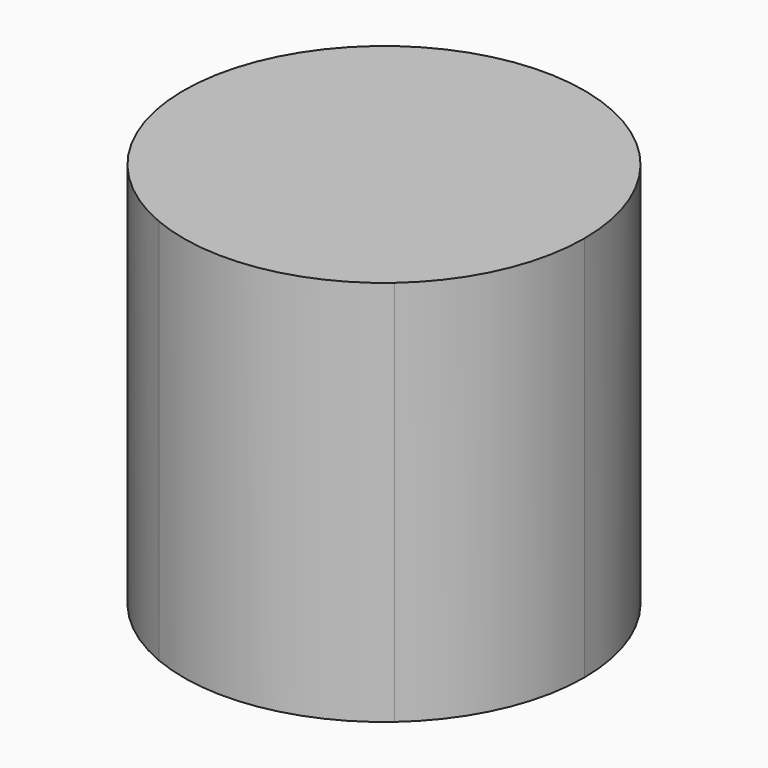
from build123d import *

# Parameters (mm, degrees)
F1_DEPTH = 50.8


with BuildPart() as f1:
    # F0 (on Top) → F1 (new body)
    with BuildSketch(Plane.XY):
        with BuildLine():
            ThreePointArc((-28.628483, 23.446609), (-21.950553, 32.396332), (-19.582599, 43.308942))
            ThreePointArc((-19.582599, 43.308942), (-34.999107, 67.270107), (-63.194952, 63.171275))
            Line((-63.194952, 63.171275), (-54.316911, 52.968404))
            Line((-54.316911, 52.968404), (-52.872185, 51.308089))
            Line((-52.872185, 51.308089), (-38.250614, 34.504607))
            Line((-38.250614, 34.504607), (-28.628483, 23.446609))
        make_face()
        with BuildLine():
            Line((-54.316911, 52.968404), (-71.672229, 37.866652))
            ThreePointArc((-71.672229, 37.866652), (-66.188404, 26.513751), (-56.054994, 19.012103))
            Line((-56.054994, 19.012103), (-38.250614, 34.504607))
            Line((-38.250614, 34.504607), (-52.872185, 51.308089))
            Line((-52.872185, 51.308089), (-54.316911, 52.968404))
        make_face()
        with BuildLine():
            Line((-54.316911, 52.968404), (-63.194952, 63.171275))
            ThreePointArc((-63.194952, 63.171275), (-70.877134, 51.672582), (-71.672229, 37.866652))
            Line((-71.672229, 37.866652), (-54.316911, 52.968404))
        make_face()
        with BuildLine():
            ThreePointArc((-56.054994, 19.012103), (-41.709223, 17.317376), (-28.628483, 23.446609))
            Line((-28.628483, 23.446609), (-38.250614, 34.504607))
            Line((-38.250614, 34.504607), (-56.054994, 19.012103))
        make_face()
    extrude(amount=F1_DEPTH)


solid = f1.part
